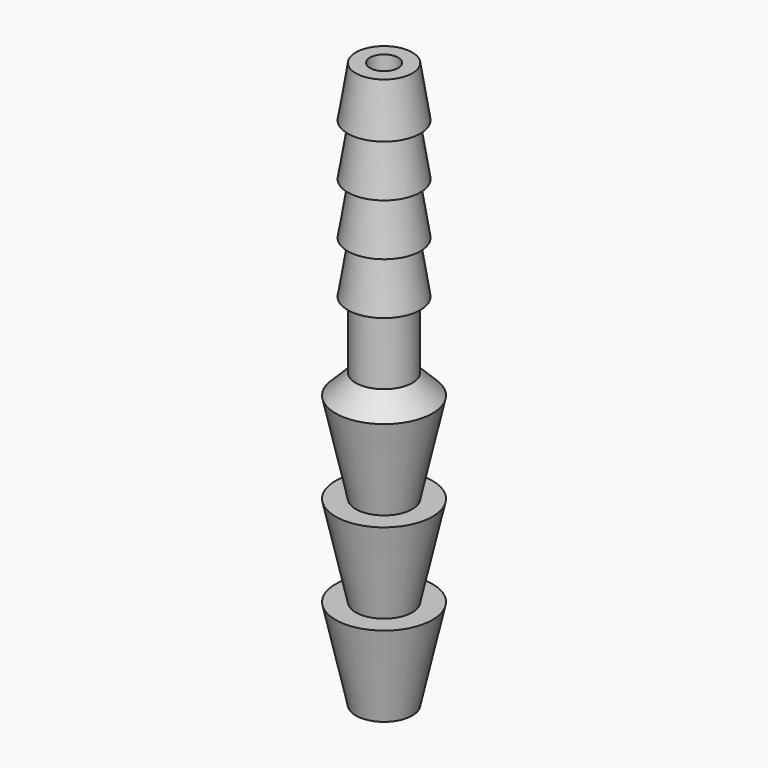
from build123d import *


with BuildPart() as f1:
    # F0 (on Front) → F1 (revolve)
    with BuildSketch(Plane.XZ):
        Polygon((1.4, 14), (0.7, 14), (0.7, -14), (1.4, -14), (1.4, -9.5), (1.4, -5), (1.4, -0.5), (1.4, 0.5), (1.4, 3.744), (1.4, 6.308), (1.4, 8.872), (1.4, 11.436), align=None)
        Polygon((1.8, 11.5), (1.4, 14), (1.4, 11.436), align=None)
        Polygon((1.8, 8.936), (1.4, 11.436), (1.4, 8.872), align=None)
        Polygon((1.8, 6.372), (1.4, 8.872), (1.4, 6.308), align=None)
        Polygon((1.8, 3.808), (1.4, 6.308), (1.4, 3.744), align=None)
        Polygon((1.4, 0.5), (1.4, -0.5), (2.4, -0.5), align=None)
        Polygon((1.4, -0.5), (1.4, -5), (2.4, -0.5), align=None)
        Polygon((1.4, -5), (1.4, -9.5), (2.4, -5), align=None)
        Polygon((1.4, -9.5), (1.4, -14), (2.4, -9.5), align=None)
    revolve(axis=Axis((0, 0, 0.375825), (0, 0, -1)))


solid = f1.part
